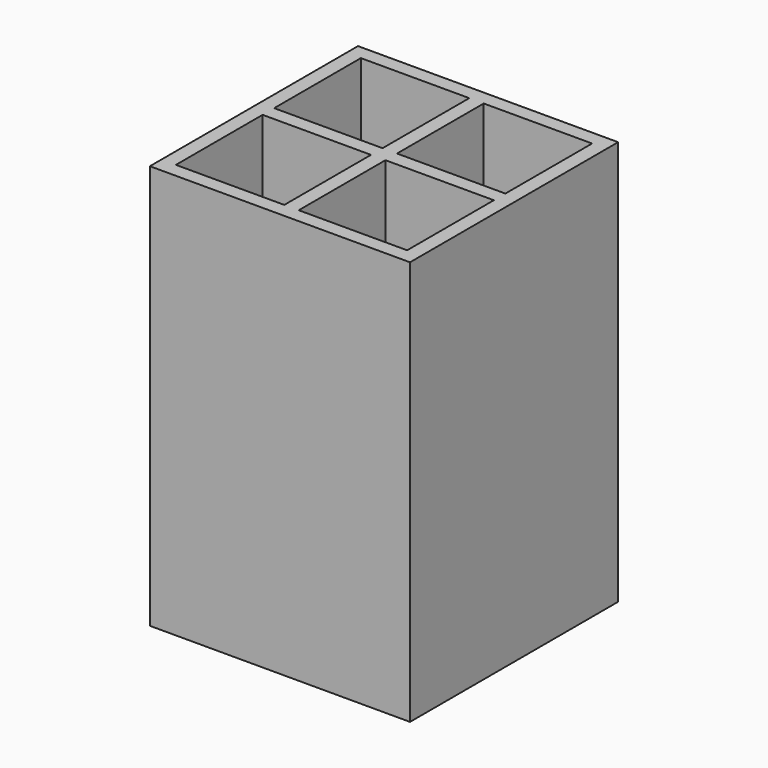
from build123d import *

# Parameters (mm, degrees)
F0_W     = 57.15
F0_H     = 57.15
F1_DEPTH = 88.9
F2_W     = 23.812472
F2_H     = 23.812484
F2_W_2   = 23.812528
F2_H_2   = 23.812516
F3_DEPTH = 85.725


with BuildPart() as f1:
    # F0 (on Top) → F1 (new body)
    with BuildSketch(Plane.XY):
        with Locations((2.8e-05, -1.6e-05)):
            Rectangle(F0_W, F0_H)
    extrude(amount=F1_DEPTH)

    # F2 (on face) → F3 (cut)
    with BuildSketch(Plane.XY.offset(88.9)):
        with Locations((-13.493736, 13.493742)):
            Rectangle(F2_W, F2_H)
        with Locations((13.493764, 13.493742)):
            Rectangle(F2_W_2, F2_H)
        with Locations((13.493764, -13.493758)):
            Rectangle(F2_W_2, F2_H_2)
        with Locations((-13.493736, -13.493758)):
            Rectangle(F2_W, F2_H_2)
    extrude(amount=-F3_DEPTH, mode=Mode.SUBTRACT)


solid = f1.part
